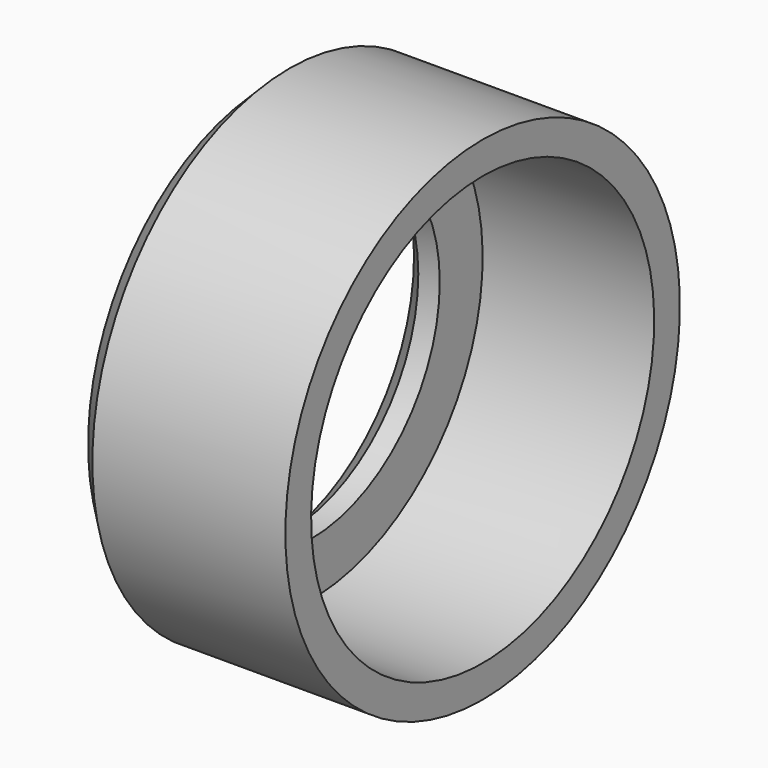
from build123d import *

# Parameters (mm, degrees)
F3_SIZE = 2
F4_SIZE = 2


with BuildPart() as f2:
    # F0 (on Front) → F2 (revolve)
    with BuildSketch(Plane.XZ):
        Polygon((8.34782, 20), (8.34782, 15), (12.34782, 15), (12.34782, 20), (28.34782, 20), (28.34782, 23), (8.34782, 23), align=None)
    revolve(axis=Axis((1.375284, 0, 0), (1, 0, 0)))

    # F3
    f3_edges = [f2.edges().sort_by_distance(p)[0] for p in [
        (8.34782, 0, -23),
    ]]
    chamfer(f3_edges, length=F3_SIZE)

    # F4
    f4_edges = [f2.edges().sort_by_distance(p)[0] for p in [
        (8.34782, 0, -15),
    ]]
    chamfer(f4_edges, length=F4_SIZE)


solid = f2.part
